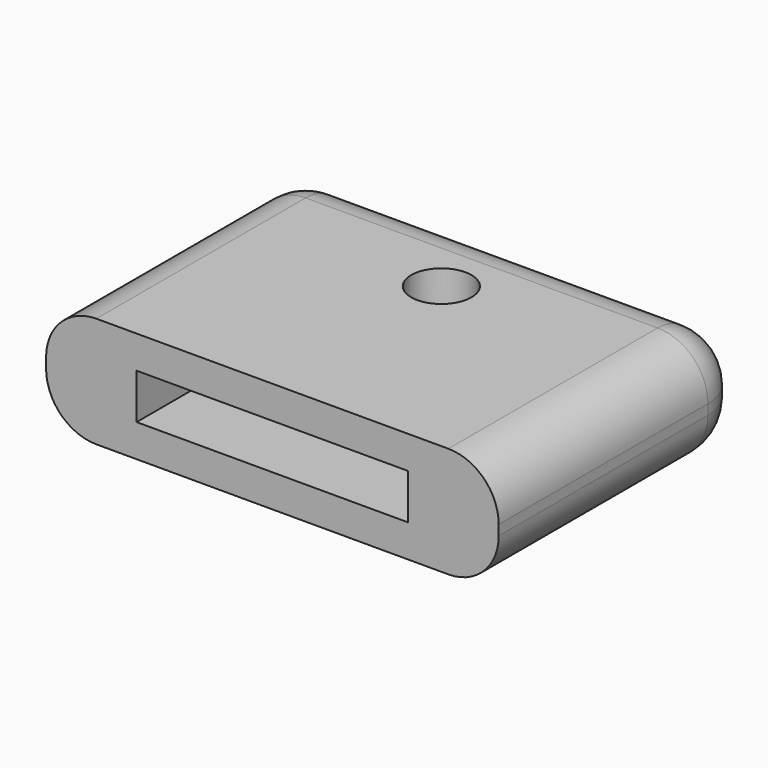
from build123d import *

# Parameters (mm, degrees)
F1_R     = 3
F2_DEPTH = 5.5
F3_DEPTH = 2.25
F4_R     = 5


with BuildPart() as f2:
    # F1 (on Top) → F2 (new body, symmetric)
    with BuildSketch(Plane.XY):
        with BuildLine():
            Line((-22.5, -13), (-13.5, -13))
            Line((-13.5, -13), (-13.5, 8))
            ThreePointArc((-13.5, 8), (-12.0355339059, 11.5355339059), (-8.5, 13))
            Line((-8.5, 13), (8.5, 13))
            ThreePointArc((8.5, 13), (12.0355339059, 11.5355339059), (13.5, 8))
            Line((13.5, 8), (13.5, -13))
            Line((13.5, -13), (22.5, -13))
            Line((22.5, -13), (22.5, 13))
            ThreePointArc((22.5, 13), (21.0355339059, 16.5355339059), (17.5, 18))
            Line((17.5, 18), (-17.5, 18))
            ThreePointArc((-17.5, 18), (-21.0355339059, 16.5355339059), (-22.5, 13))
            Line((-22.5, 13), (-22.5, -13))
        make_face()
        with BuildLine():
            Line((-13.5, 8), (-13.5, -13))
            Line((-13.5, -13), (13.5, -13))
            Line((13.5, -13), (13.5, 8))
            ThreePointArc((13.5, 8), (12.0355339059, 11.5355339059), (8.5, 13))
            Line((8.5, 13), (-8.5, 13))
            ThreePointArc((-8.5, 13), (-12.0355339059, 11.5355339059), (-13.5, 8))
        make_face()
        with Locations((0, 8)):
            Circle(F1_R, mode=Mode.SUBTRACT)
    extrude(amount=F2_DEPTH, both=True)

    # F1 (on Top) → F3 (cut, symmetric)
    with BuildSketch(Plane.XY):
        with BuildLine():
            Line((-13.5, 8), (-13.5, -13))
            Line((-13.5, -13), (13.5, -13))
            Line((13.5, -13), (13.5, 8))
            ThreePointArc((13.5, 8), (12.0355339059, 11.5355339059), (8.5, 13))
            Line((8.5, 13), (-8.5, 13))
            ThreePointArc((-8.5, 13), (-12.0355339059, 11.5355339059), (-13.5, 8))
        make_face()
        with Locations((0, 8)):
            Circle(F1_R, mode=Mode.SUBTRACT)
    extrude(amount=F3_DEPTH, both=True, mode=Mode.SUBTRACT)

    # F4
    f4_edges = [f2.edges().sort_by_distance(p)[0] for p in [
        (-22.5, 0, 5.5),
        (-21.035534, 16.535534, 5.5),
        (0, 18, 5.5),
        (21.035534, 16.535534, 5.5),
        (22.5, 0, 5.5),
        (22.5, 0, -5.5),
    ]]
    fillet(f4_edges, radius=F4_R)


solid = f2.part
